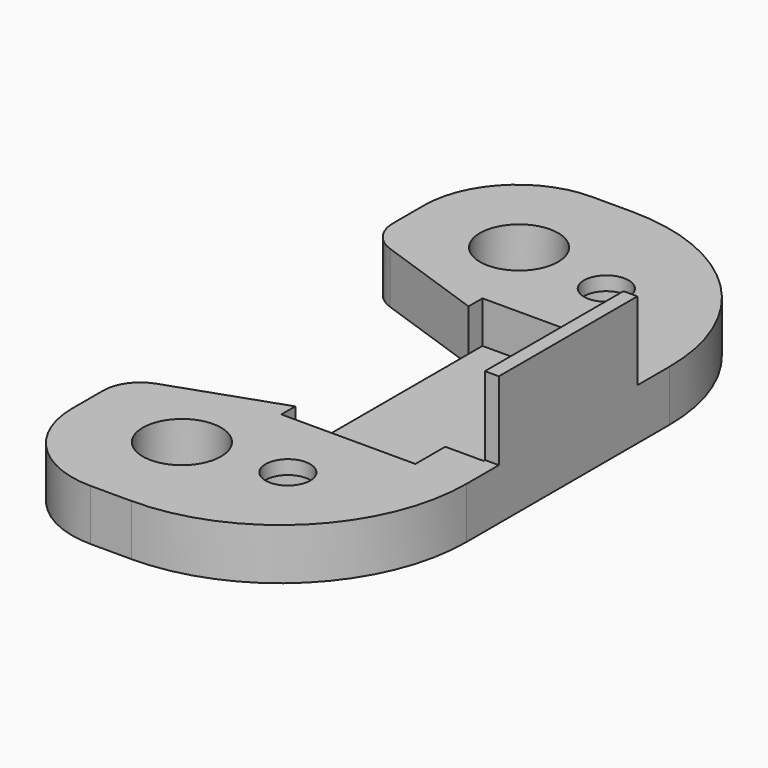
from build123d import *

# Parameters (mm, degrees)
F0_R      = 2.1
F1_DEPTH  = 2.75
F2_W      = 13.5
F2_H      = 2.25
F3_DEPTH  = 10
F4_W      = 2.8
F4_H      = 2
F5_DEPTH  = 2.25
F6_R      = 10
F7_R      = 2
F8_R      = 2
F9_DEPTH  = 2
F10_R     = 1.2
F11_R     = 1.2
F12_DEPTH = 0.75
F13_W     = 0.75
F13_H     = 9.5
F14_DEPTH = 2.25
F15_W     = 0.75
F15_H     = 9.5
F16_DEPTH = 4.2
F17_R     = 2.1
F18_DEPTH = 0.5
F19_W     = 0.75
F19_H     = 0.1
F20_DEPTH = 4.2


with BuildPart() as f1:
    # F0 (on Top) → F1 (new body)
    with BuildSketch(Plane.XY):
        with BuildLine():
            Line((11.6860830059, 16.8135), (5.5, 16.8135))
            Line((5.5, 16.8135), (-0.5, 16.8135))
            ThreePointArc((-0.5, 16.8135), (-4.0355339059, 15.3490339059), (-5.5, 11.8135))
            Line((-5.5, 11.8135), (-5.5, 8.3135))
            Line((-5.5, 8.3135), (1.6860830059, 5.8135))
            Line((1.6860830059, 5.8135), (1.6860830059, -5.814))
            Line((1.6860830059, -5.814), (-5.5, -8.314))
            Line((-5.5, -8.314), (-5.5, -11.814))
            ThreePointArc((-5.5, -11.814), (-4.0355339059, -15.3495339059), (-0.5, -16.814))
            Line((-0.5, -16.814), (5.5, -16.814))
            Line((5.5, -16.814), (11.6860830059, -16.814))
            Line((11.6860830059, -16.814), (11.6860830059, 16.8135))
        make_face()
        with Locations((0, -11.314)):
            Circle(F0_R, mode=Mode.SUBTRACT)
        with Locations((0, 11.3135)):
            Circle(F0_R, mode=Mode.SUBTRACT)
    extrude(amount=F1_DEPTH)

    # F2 (on face) → F3 (cut, through all)
    with BuildSketch(Plane.YZ.offset(11.6860830059)):
        with Locations((0, 1.625)):
            Rectangle(F2_W, F2_H)
    extrude(amount=-F3_DEPTH, mode=Mode.SUBTRACT)

    # F4 (on face) → F5 (join, through all)
    with BuildSketch(Plane.XY.offset(0.5)):
        with Locations((10.2860830059, -5.75)):
            Rectangle(F4_W, F4_H)
        with Locations((10.2860830059, 5.75)):
            Rectangle(F4_W, F4_H)
    extrude(amount=F5_DEPTH)

    # F6
    f6_edges = [f1.edges().sort_by_distance(p)[0] for p in [
        (11.686083, -16.814, 1.375),
        (11.686083, 16.8135, 1.375),
    ]]
    fillet(f6_edges, radius=F6_R)

    # F7
    f7_edges = [f1.edges().sort_by_distance(p)[0] for p in [
        (-5.5, -8.314, 1.375),
        (-5.5, 8.3135, 1.375),
    ]]
    fillet(f7_edges, radius=F7_R)

    # F8 (on face) → F9 (cut)
    with BuildSketch(Plane(origin=(0, 0, 0), x_dir=(1, 0, 0), z_dir=(0, 0, -1))):
        with Locations((5.1860830059, -10.6868971724)):
            Circle(F8_R)
        with Locations((5.1860830059, 10.6873971724)):
            Circle(F8_R)
    extrude(amount=-F9_DEPTH, mode=Mode.SUBTRACT)

    # F10 (on face) + F11 (on face) → F12 (cut, through all)
    with BuildSketch(Plane(origin=(0, 0, 2), x_dir=(1, 0, 0), z_dir=(0, 0, -1))):
        with Locations((5.1860830059, -10.6868971724)):
            Circle(F10_R)
    with BuildSketch(Plane(origin=(0, 0, 2), x_dir=(1, 0, 0), z_dir=(0, 0, -1))):
        with Locations((5.1860830059, 10.6873971724)):
            Circle(F11_R)
    extrude(amount=-F12_DEPTH, mode=Mode.SUBTRACT)

    # F13 (on face) → F14 (join, through all)
    with BuildSketch(Plane.XY.offset(0.5)):
        with Locations((11.3110830059, 0)):
            Rectangle(F13_W, F13_H)
    extrude(amount=F14_DEPTH)

    # F15 (on face) → F16 (join)
    with BuildSketch(Plane.XY.offset(2.75)):
        with Locations((11.3110830059, 0)):
            Rectangle(F15_W, F15_H)
    extrude(amount=F16_DEPTH)

    # F17 (on face) → F18 (join)
    with BuildSketch(Plane(origin=(0, 0, 0), x_dir=(1, 0, 0), z_dir=(0, 0, -1))):
        with Locations((0, 11.314)):
            Circle(F17_R)
        with Locations((0, -11.3135)):
            Circle(F17_R)
    extrude(amount=-F18_DEPTH)

    # F19 (on face) → F20 (cut, through all)
    with BuildSketch(Plane.XY.offset(6.95)):
        with Locations((11.3110830059, 4.7)):
            Rectangle(F19_W, F19_H)
        with Locations((11.3110830059, -4.7)):
            Rectangle(F19_W, F19_H)
    extrude(amount=-F20_DEPTH, mode=Mode.SUBTRACT)


solid = f1.part
